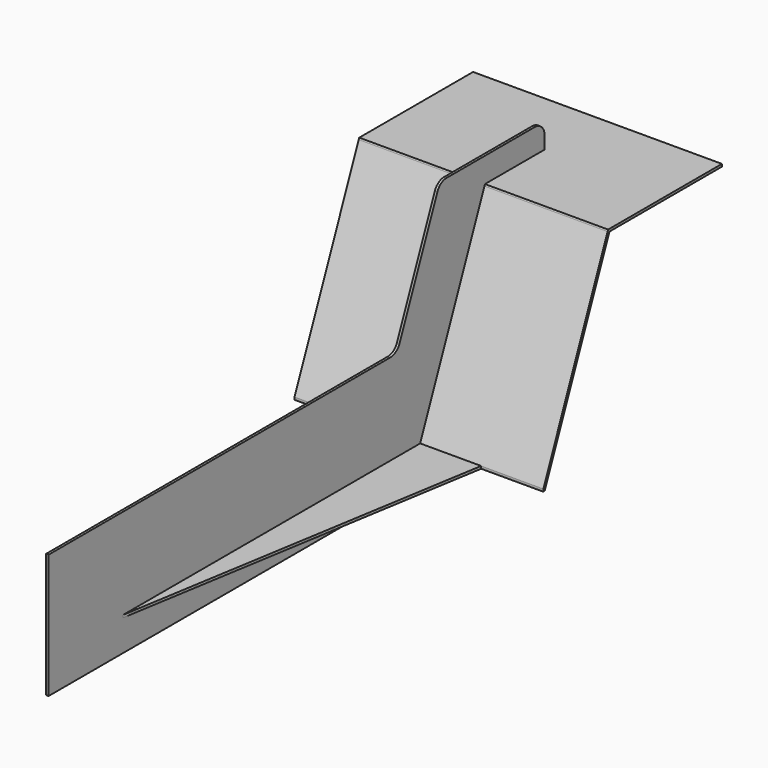
from build123d import *

# Parameters (mm, degrees)
F1_DEPTH = 100
F3_DEPTH = 2
F4_W     = 2
F4_H     = 298.6636427242
F5_DEPTH = 2
F7_DEPTH = 1


with BuildPart() as f1:
    # F0 (on Right) → F1 (new body, symmetric)
    with BuildSketch(Plane.YZ):
        Polygon((-300, 0), (0, 0), (65.0561835021, 157.0595205269), (178.0561835021, 157.0595205269), (178.0561835021, 159.0595205269), (63.7198262262, 159.0595205269), (63.2071728736, 157.8218658503), (-1.3363572758, 2), (-300, 2), align=None)
    extrude(amount=F1_DEPTH, both=True)

    # F2 (on face) → F3 (cut)
    with BuildSketch(Plane.XY.offset(2)):
        Polygon((-50, -1.3363572758), (-100, -1.3363572758), (-100, -300), (-1, -300), align=None)
        Polygon((100, -300), (100, -1.3363572758), (50, -1.3363572758), (1, -300), align=None)
    extrude(amount=-F3_DEPTH, mode=Mode.SUBTRACT)

    # F4 (on face) → F5 (cut)
    with BuildSketch(Plane.XY.offset(2)):
        with Locations((0, -150.6681786379)):
            Rectangle(F4_W, F4_H)
    extrude(amount=-F5_DEPTH, mode=Mode.SUBTRACT)

    # F6 (on Right) → F7 (join, symmetric)
    with BuildSketch(Plane.YZ):
        with BuildLine():
            Line((0, -25), (0, 0))
            Line((0, 0), (-1.3218912033, 0))
            Line((-1.3218912033, 0), (-1.3218912033, 1.994008737))
            Line((-1.3218912033, 1.994008737), (63.7198262262, 159.0595205269))
            Line((63.7198262262, 159.0595205269), (123.7198262262, 159.0595205269))
            Line((123.7198262262, 159.0595205269), (123.7198262262, 169.0595205269))
            ThreePointArc((123.7198262262, 169.0595205269), (120.7908940381, 176.1305883388), (113.7198262262, 179.0595205269))
            Line((113.7198262262, 179.0595205269), (25.1346510755, 179.0595205269))
            ThreePointArc((25.1346510755, 179.0595205269), (19.5789487453, 177.3742166499), (15.8958557504, 172.8863548506))
            Line((15.8958557504, 172.8863548506), (-22.0929910541, 81.1731656763))
            ThreePointArc((-22.0929910541, 81.1731656763), (-25.776084049, 76.685303877), (-31.3317863792, 75))
            Line((-31.3317863792, 75), (-374.65, 75))
            Line((-374.65, 75), (-374.65, -25))
            Line((-374.65, -25), (0, -25))
        make_face()
    extrude(amount=F7_DEPTH, both=True)


solid = f1.part
